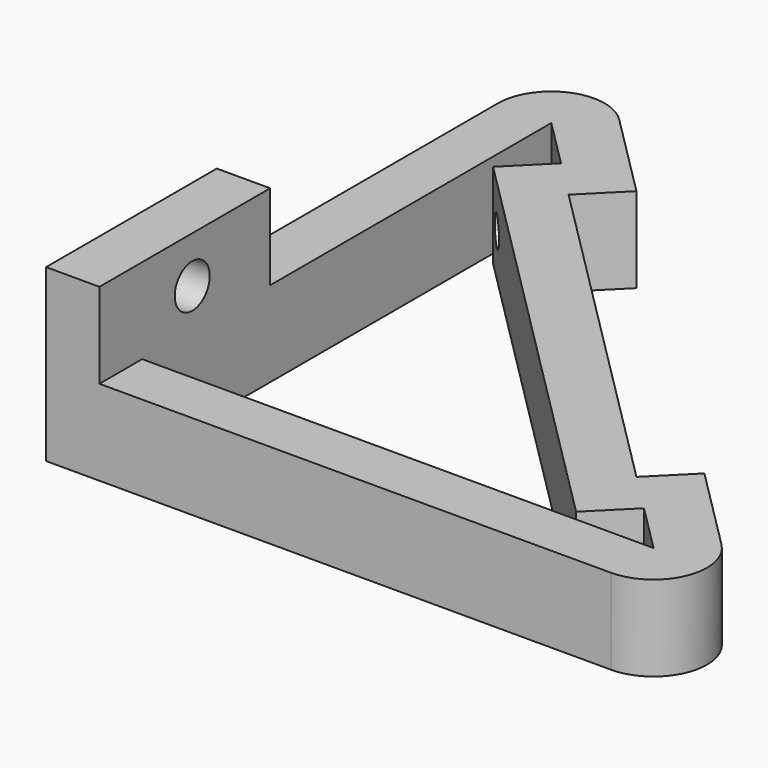
from build123d import *

# Parameters (mm, degrees)
F1_DEPTH = 8
F2_W     = 45
F2_H     = 8
F3_DEPTH = 5
F4_T     = -5
F5_D     = 2.8
F5_DEPTH = 11
F5_TIP   = 0.8412048666
F7_DEPTH = 8
F9_D     = 4.1
F9_DEPTH = 7
F9_TIP   = 1.231764269
F10_R    = 5


with BuildPart() as f1:
    # F0 (on Top) → F1 (new body)
    with BuildSketch(Plane.XY):
        Polygon((81.39341741, -55.7623273981), (16.39341741, 9.2376726019), (16.39341741, -55.7623273981), align=None)
    extrude(amount=F1_DEPTH)

    # F2 (on face) → F3 (cut)
    with BuildSketch(Plane(origin=(12.8155450059, 12.8155450059, 0), x_dir=(-0.7071067812, 0.7071067812, 0), z_dir=(0.7071067812, 0.7071067812, 0))):
        with Locations((-51.0598756783, 4)):
            Rectangle(F2_W, F2_H)
    extrude(amount=-F3_DEPTH, mode=Mode.SUBTRACT)

    # F4
    f4_openings = [f1.faces().sort_by_distance(p)[0] for p in [
        (36.976212, -35.173116, 8),
        (36.976212, -35.173116, 0),
    ]]
    offset(amount=F4_T, openings=f4_openings, kind=Kind.INTERSECTION)

    # F5
    with Locations(Plane(origin=(12.8155450059, 12.8155450059, 0), x_dir=(-0.7071067812, 0.7071067812, 0), z_dir=(0.7071067812, 0.7071067812, 0))):
        with Locations((-26.0598756783, 4), (-76.0598756783, 4)):
            Hole(F5_D / 2, depth=F5_DEPTH)
            with Locations((0, 0, -(F5_DEPTH + F5_TIP / 2))):  # 118° drill point
                Cone(0, F5_D / 2, F5_TIP, mode=Mode.SUBTRACT)

    # F6 (on face) → F7 (join)
    with BuildSketch(Plane.XY.offset(8)):
        Polygon((21.39341741, -35.7623273981), (16.39341741, -35.7623273981), (16.39341741, -55.7623273981), (21.39341741, -55.7623273981), (21.39341741, -50.7623273981), align=None)
    extrude(amount=F7_DEPTH)

    # F9
    with Locations(Plane(origin=(16.39341741, 0, 0), x_dir=(0, -1, 0), z_dir=(-1, 0, 0))):
        with Locations((44.8939013033, 11.6526295621)):
            Hole(F9_D / 2, depth=F9_DEPTH)
            with Locations((0, 0, -(F9_DEPTH + F9_TIP / 2))):  # 118° drill point
                Cone(0, F9_D / 2, F9_TIP, mode=Mode.SUBTRACT)

    # F10
    f10_edges = [f1.edges().sort_by_distance(p)[0] for p in [
        (16.393417, 9.237673, 4),
        (81.393417, -55.762327, 4),
    ]]
    fillet(f10_edges, radius=F10_R)


solid = f1.part
